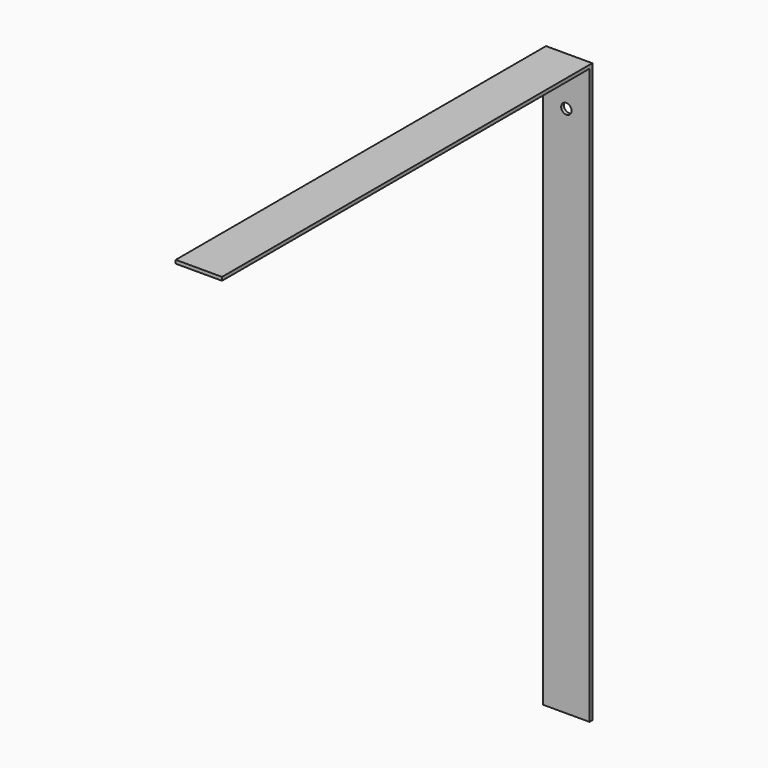
from build123d import *

# Parameters (mm, degrees)
F1_DEPTH = 40
F2_R     = 4.5
F3_DEPTH = 400.001


with BuildPart() as f1:
    # F0 (on Right) → F1 (new body)
    with BuildSketch(Plane.YZ):
        Polygon((-3, 0), (0, 0), (0, 500), (-400, 500), (-400, 497), (-3, 497), align=None)
    extrude(amount=F1_DEPTH)

    # F2 (on face) → F3 (cut, through all)
    with BuildSketch(Plane(origin=(0, 0, 0), x_dir=(-1, 0, 0), z_dir=(0, 1, 0))):
        with Locations((-20, 460)):
            Circle(F2_R)
    extrude(amount=-F3_DEPTH, mode=Mode.SUBTRACT)


solid = f1.part
